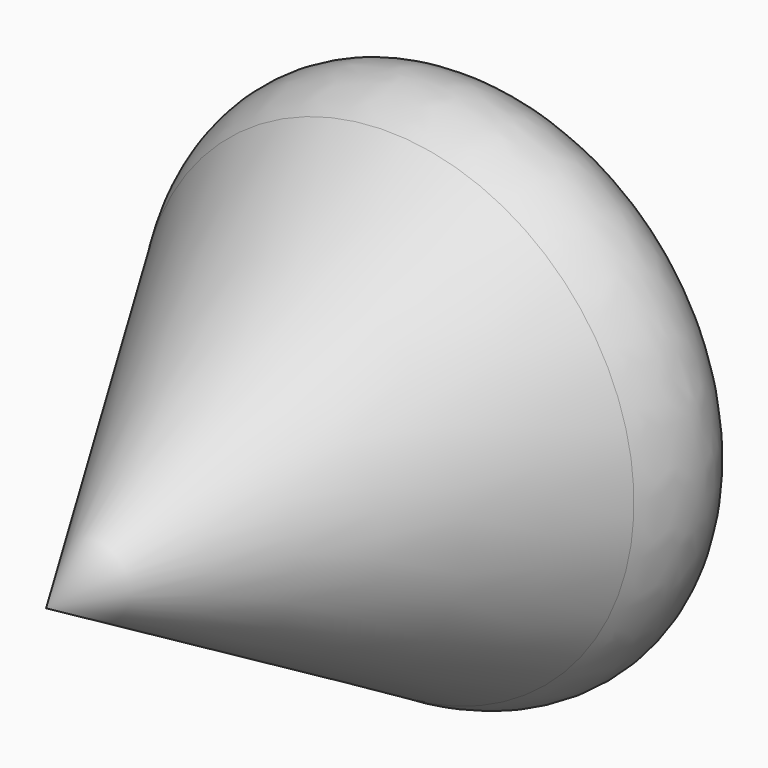
from build123d import *


with BuildPart() as f1:
    # F0 (on Top) → F1 (revolve)
    with BuildSketch(Plane.XY):
        with BuildLine():
            add(Edge.make_bspline(
                [(-26.594097, 0), (-38.636707, 18.314809), (0, 21.325462), (0, 0)],
                knots=[0, 0, 0, 0, 26.594097, 26.594097, 26.594097, 26.594097], degree=3))
            Line((-26.594097, 0), (0, -45.912452))
            Line((0, -45.912452), (0, 0))
        make_face()
    revolve(axis=Axis((0, -22.956226, 0), (0, -1, 0)))


solid = f1.part
